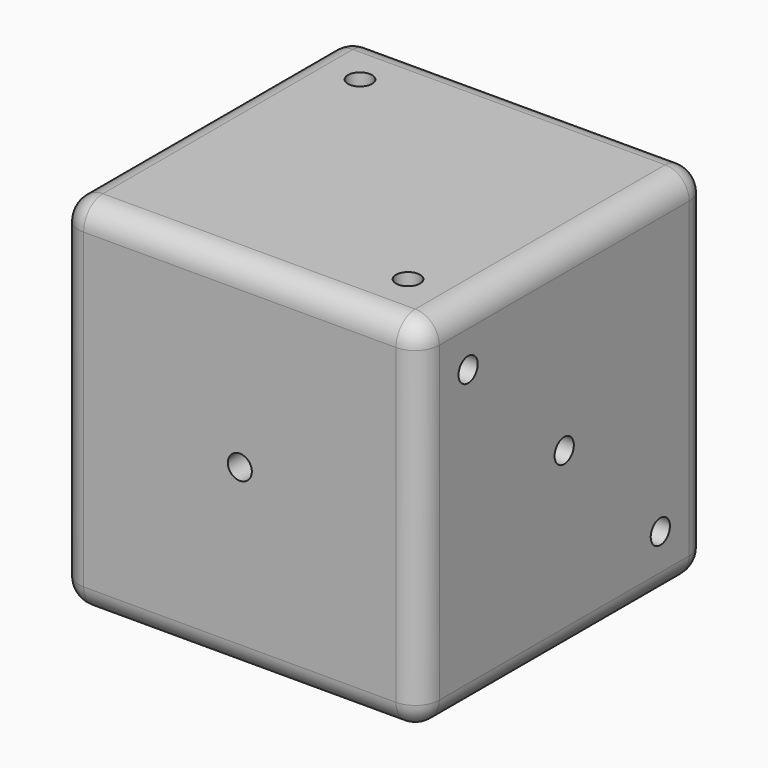
from build123d import *

# Parameters (mm, degrees)
F0_W      = 30
F0_H      = 30
F1_DEPTH  = 15
F2_R      = 2
F4_D      = 2
F4_DEPTH  = 2
F4_TIP    = 0.600860619
F10_D     = 2
F10_DEPTH = 2
F10_TIP   = 0.600860619
F11_D     = 2
F11_DEPTH = 2
F11_TIP   = 0.600860619
F12_D     = 2
F12_DEPTH = 2
F12_TIP   = 0.600860619
F13_D     = 2
F13_DEPTH = 2
F13_TIP   = 0.600860619
F14_D     = 2
F14_DEPTH = 2
F14_TIP   = 0.600860619


with BuildPart() as f1:
    # F0 (on Front) → F1 (new body, symmetric)
    with BuildSketch(Plane.XZ):
        Rectangle(F0_W, F0_H)
    extrude(amount=F1_DEPTH, both=True)

    # F2
    f2_edges = [f1.edges().sort_by_distance(p)[0] for p in [
        (0, -15, 15),
        (15, 0, 15),
        (0, 15, 15),
        (-15, 0, 15),
        (15, -15, 0),
        (0, -15, -15),
        (-15, -15, 0),
        (15, 0, -15),
        (15, 15, 0),
        (-15, 0, -15),
        (0, 15, -15),
        (-15, 15, 0),
    ]]
    fillet(f2_edges, radius=F2_R)

    # F4
    with Locations(Plane.XZ.offset(15)):
        with Locations((0, 0)):
            Hole(F4_D / 2, depth=F4_DEPTH)
            with Locations((0, 0, -(F4_DEPTH + F4_TIP / 2))):  # 118° drill point
                Cone(0, F4_D / 2, F4_TIP, mode=Mode.SUBTRACT)

    # F10
    with Locations(Plane.YZ.offset(15)):
        with Locations((-10, 10), (10, -10), (0, 0)):
            Hole(F10_D / 2, depth=F10_DEPTH)
            with Locations((0, 0, -(F10_DEPTH + F10_TIP / 2))):  # 118° drill point
                Cone(0, F10_D / 2, F10_TIP, mode=Mode.SUBTRACT)

    # F11
    with Locations(Plane(origin=(0, 15, 0), x_dir=(-1, 0, 0), z_dir=(0, 1, 0))):
        with Locations((-10, 10), (0, 10), (10, 10), (10, -10), (0, -10), (-10, -10)):
            Hole(F11_D / 2, depth=F11_DEPTH)
            with Locations((0, 0, -(F11_DEPTH + F11_TIP / 2))):  # 118° drill point
                Cone(0, F11_D / 2, F11_TIP, mode=Mode.SUBTRACT)

    # F12
    with Locations(Plane.XY.offset(15)):
        with Locations((10, -10), (-10, 10)):
            Hole(F12_D / 2, depth=F12_DEPTH)
            with Locations((0, 0, -(F12_DEPTH + F12_TIP / 2))):  # 118° drill point
                Cone(0, F12_D / 2, F12_TIP, mode=Mode.SUBTRACT)

    # F13
    with Locations(Plane(origin=(-15, 0, 0), x_dir=(0, -1, 0), z_dir=(-1, 0, 0))):
        with Locations((10, 10), (-10, 10), (10, -10), (-10, -10)):
            Hole(F13_D / 2, depth=F13_DEPTH)
            with Locations((0, 0, -(F13_DEPTH + F13_TIP / 2))):  # 118° drill point
                Cone(0, F13_D / 2, F13_TIP, mode=Mode.SUBTRACT)

    # F14
    with Locations(Plane(origin=(0, 0, -15), x_dir=(1, 0, 0), z_dir=(0, 0, -1))):
        with Locations((-10, 10), (-10, -10), (0, 0), (10, -10), (10, 10)):
            Hole(F14_D / 2, depth=F14_DEPTH)
            with Locations((0, 0, -(F14_DEPTH + F14_TIP / 2))):  # 118° drill point
                Cone(0, F14_D / 2, F14_TIP, mode=Mode.SUBTRACT)


solid = f1.part
